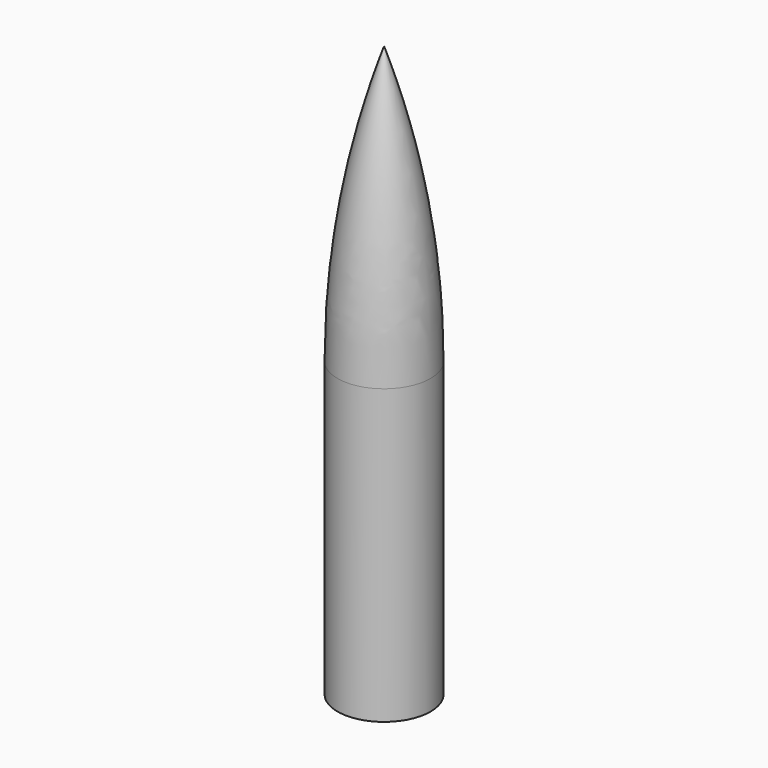
from build123d import *


with BuildPart() as f1:
    # F0 (on Right) → F1 (revolve)
    with BuildSketch(Plane.YZ):
        with BuildLine():
            Line((0, 64), (0, 0))
            Line((0, 0), (4, 0))
            Line((4, 0), (4, 3.294318))
            ThreePointArc((4, 3.294318), (4.701754, 4.949879), (6.37949, 5.596828))
            ThreePointArc((6.37949, 5.596828), (8.227164, 6.309307), (9, 8.132561))
            Line((9, 8.132561), (9, 55))
            ThreePointArc((9, 55), (6.363961, 61.363961), (0, 64))
        make_face()
    revolve(axis=Axis((0, 0, 32), (0, 0, 1)))


with BuildPart() as f3:
    # F2 (on Front) → F3 (revolve)
    with BuildSketch(Plane.XZ):
        with BuildLine():
            Line((0, 141.106606), (0, 66.480376))
            Line((0, 66.480376), (9.493257, 60.807556))
            Line((9.493257, 60.807556), (9.493257, 31.28003))
            Line((9.493257, 31.28003), (9.493257, 0))
            Line((9.493257, 0), (11.493257, 0))
            Line((11.493257, 0), (11.493257, 35.423289))
            Line((11.493257, 35.423289), (11.493257, 72.496586))
            ThreePointArc((11.493257, 72.496586), (8.600064, 107.279591), (0, 141.106606))
        make_face()
    revolve(axis=Axis((0, 0, 88.461821), (0, 0, 1)))


solid = Compound([f1.part, f3.part])
